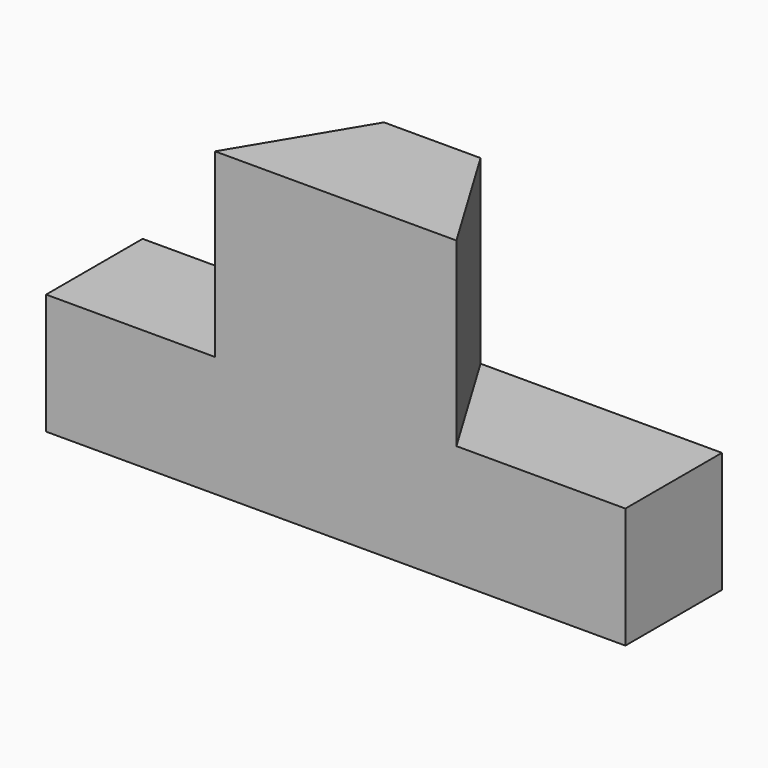
from build123d import *

# Parameters (mm, degrees)
F0_W     = 48
F0_H     = 25
F1_DEPTH = 10
F3_DEPTH = 15


with BuildPart() as f1:
    # F0 (on Front) → F1 (new body)
    with BuildSketch(Plane.XZ):
        Rectangle(F0_W, F0_H)
    extrude(amount=-F1_DEPTH)

    # F2 (on face) → F3 (cut)
    with BuildSketch(Plane.XY.offset(12.5)):
        Polygon((-24, 0), (-10, 0), (-4, 10), (-24, 10), align=None)
        Polygon((4, 10), (10, 0), (24, 0), (24, 10), align=None)
    extrude(amount=-F3_DEPTH, mode=Mode.SUBTRACT)


solid = f1.part
